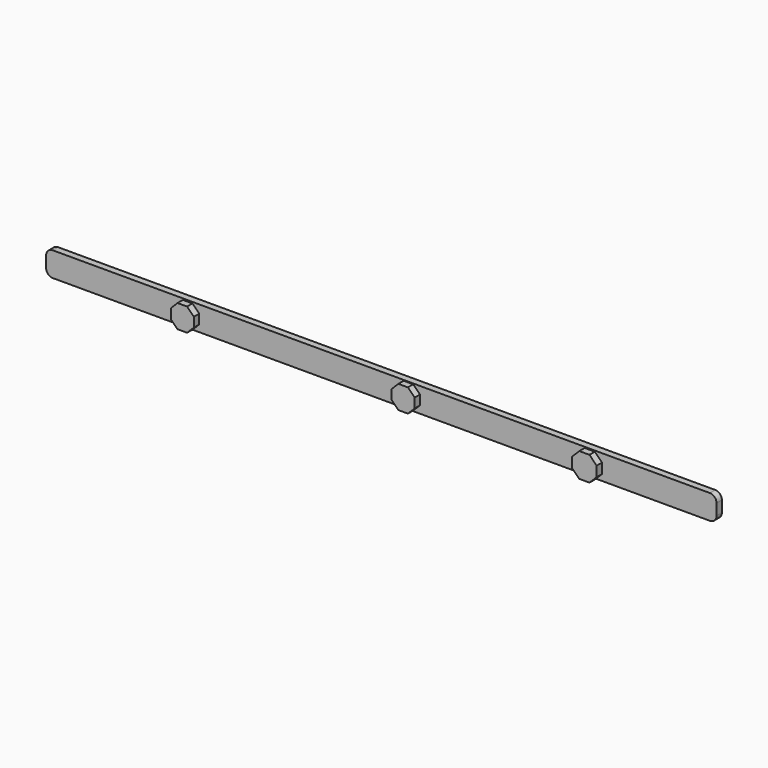
from build123d import *

# Parameters (mm, degrees)
F0_W     = 254
F0_H     = 9.267491
F1_DEPTH = 2.54
F2_R     = 2.54
F6_DEPTH = 2.54


with BuildPart() as f1:
    # F0 (on Front) → F1 (new body)
    with BuildSketch(Plane.XZ):
        with Locations((-2.819128, 33.181484)):
            Rectangle(F0_W, F0_H)
    extrude(amount=F1_DEPTH)

    # F2
    f2_edges = [f1.edges().sort_by_distance(p)[0] for p in [
        (124.180872, -1.27, 37.81523),
        (124.180872, -1.27, 28.547739),
        (-129.819128, -1.27, 37.81523),
        (-129.819128, -1.27, 28.547739),
    ]]
    fillet(f2_edges, radius=F2_R)

    # F3 (on face) + F4 (on face) + F5 (on face) → F6 (join)
    with BuildSketch(Plane.XZ.offset(2.54)):
        Polygon((-77.991536, 28.547739), (-74.369276, 28.547739), (-71.807952, 31.109063), (-71.807952, 34.731323), (-74.369276, 37.292647), (-77.991536, 37.292647), (-80.55286, 34.731323), (-80.55286, 31.109063), align=None)
    with BuildSketch(Plane.XZ.offset(2.54)):
        Polygon((5.658443, 28.784776), (9.283109, 28.784776), (11.846135, 31.347802), (11.846135, 34.972468), (9.283109, 37.535494), (5.658443, 37.535494), (3.095417, 34.972468), (3.095417, 31.347802), align=None)
    with BuildSketch(Plane.XZ.offset(2.54)):
        Polygon((74.223366, 28.135227), (78.068468, 28.135227), (78.48098, 28.547739), (73.810854, 28.547739), align=None)
        Polygon((73.810854, 28.547739), (78.48098, 28.547739), (80.787366, 30.854125), (80.787366, 34.699227), (78.068468, 37.418125), (74.223366, 37.418125), (71.504468, 34.699227), (71.504468, 30.854125), align=None)
    extrude(amount=F6_DEPTH)


solid = f1.part
